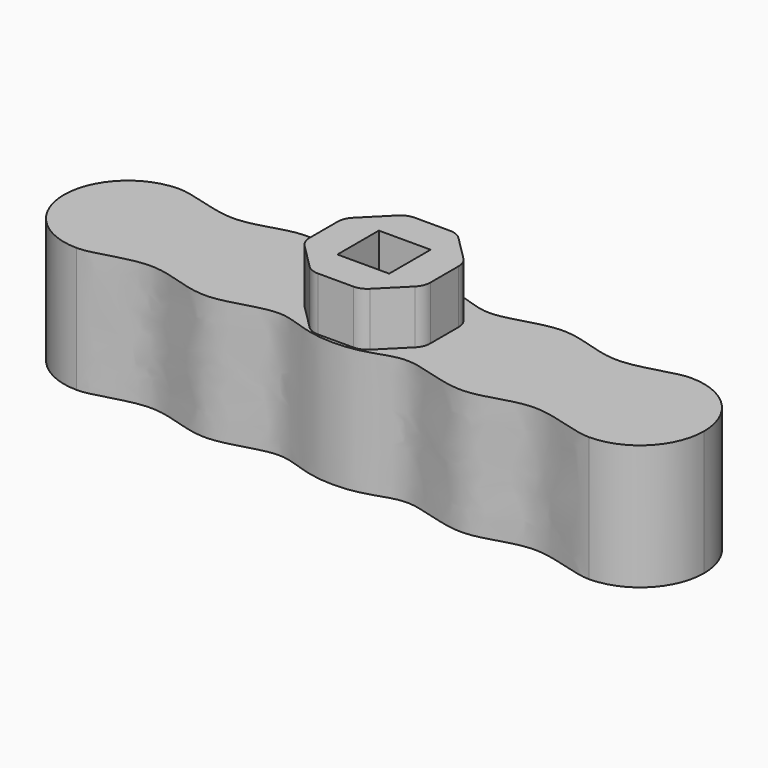
from build123d import *

# Parameters (mm, degrees)
F3_DEPTH = 7
F5_DEPTH = 3
F6_W     = 2.9
F6_H     = 2.9
F7_DEPTH = 8.5
F8_SIZE  = 1.2


with BuildPart() as f3:
    # F2 (on Top) → F3 (new body)
    with BuildSketch(Plane.XY):
        with BuildLine():
            add(Edge.make_bspline(
                [(0, -3.5833333333), (1.7916666667, -3.5833333333), (3.2975634243, -2.1833333333), (7.2710280149, -4.2833333333), (10.618324516, -2.1833333333), (13.3765574527, -3.5833333333), (14.3333333333, -3.5833333333)],
                knots=[0, 0, 0, 0, 0.25, 0.5, 0.75, 1, 1, 1, 1], degree=3))
            ThreePointArc((14.3333333333, -3.5833333333), (16.8671326326, -2.5337992993), (17.9166666667, 0))
            ThreePointArc((17.9166666667, 0), (16.8671326326, 2.5337992993), (14.3333333333, 3.5833333333))
            add(Edge.make_bspline(
                [(0, 3.5833333333), (1.7916666667, 3.5833333333), (3.2975634243, 2.1833333333), (7.2710280149, 4.2833333333), (10.618324516, 2.1833333333), (13.3765574527, 3.5833333333), (14.3333333333, 3.5833333333)],
                knots=[0, 0, 0, 0, 0.25, 0.5, 0.75, 1, 1, 1, 1], degree=3))
            add(Edge.make_bspline(
                [(0, 3.5833333333), (-1.7916666667, 3.5833333333), (-3.2975634243, 2.1833333333), (-7.2710280149, 4.2833333333), (-10.618324516, 2.1833333333), (-13.3765574527, 3.5833333333), (-14.3333333333, 3.5833333333)],
                knots=[0, 0, 0, 0, 0.25, 0.5, 0.75, 1, 1, 1, 1], degree=3))
            ThreePointArc((-14.3333333333, 3.5833333333), (-16.8671326326, 2.5337992993), (-17.9166666667, 0))
            ThreePointArc((-17.9166666667, 0), (-16.8671326326, -2.5337992993), (-14.3333333333, -3.5833333333))
            add(Edge.make_bspline(
                [(0, -3.5833333333), (-1.7916666667, -3.5833333333), (-3.2975634243, -2.1833333333), (-7.2710280149, -4.2833333333), (-10.618324516, -2.1833333333), (-13.3765574527, -3.5833333333), (-14.3333333333, -3.5833333333)],
                knots=[0, 0, 0, 0, 0.25, 0.5, 0.75, 1, 1, 1, 1], degree=3))
        make_face()
    extrude(amount=F3_DEPTH)

    # F4 (on face) → F5 (join)
    with BuildSketch(Plane.XY.offset(7)):
        with BuildLine():
            Line((-0.9872089903, -3.3833333333), (0.9872089903, -3.3833333333))
            ThreePointArc((0.9872089903, -3.3833333333), (1.3698924227, -3.3072128658), (1.6943157715, -3.0904401145))
            Line((1.6943157715, -3.0904401145), (3.0904401145, -1.6943157715))
            ThreePointArc((3.0904401145, -1.6943157715), (3.3072128658, -1.3698924227), (3.3833333333, -0.9872089903))
            Line((3.3833333333, -0.9872089903), (3.3833333333, 0.9872089903))
            ThreePointArc((3.3833333333, 0.9872089903), (3.3072128658, 1.3698924227), (3.0904401145, 1.6943157715))
            Line((3.0904401145, 1.6943157715), (1.6943157715, 3.0904401145))
            ThreePointArc((1.6943157715, 3.0904401145), (1.3698924227, 3.3072128658), (0.9872089903, 3.3833333333))
            Line((0.9872089903, 3.3833333333), (-0.9872089903, 3.3833333333))
            ThreePointArc((-0.9872089903, 3.3833333333), (-1.3698924227, 3.3072128658), (-1.6943157715, 3.0904401145))
            Line((-1.6943157715, 3.0904401145), (-3.0904401145, 1.6943157715))
            ThreePointArc((-3.0904401145, 1.6943157715), (-3.3072128658, 1.3698924227), (-3.3833333333, 0.9872089903))
            Line((-3.3833333333, 0.9872089903), (-3.3833333333, -0.9872089903))
            ThreePointArc((-3.3833333333, -0.9872089903), (-3.3072128658, -1.3698924227), (-3.0904401145, -1.6943157715))
            Line((-3.0904401145, -1.6943157715), (-1.6943157715, -3.0904401145))
            ThreePointArc((-1.6943157715, -3.0904401145), (-1.3698924227, -3.3072128658), (-0.9872089903, -3.3833333333))
        make_face()
    extrude(amount=F5_DEPTH)

    # F6 (on face) → F7 (cut)
    with BuildSketch(Plane.XY.offset(10)):
        Rectangle(F6_W, F6_H)
    extrude(amount=-F7_DEPTH, mode=Mode.SUBTRACT)

    # F8
    f8_edges = [f3.edges().sort_by_distance(p)[0] for p in [
        (0, -1.45, 1.5),
        (1.45, 0, 1.5),
        (0, 1.45, 1.5),
        (-1.45, 0, 1.5),
    ]]
    chamfer(f8_edges, length=F8_SIZE)


solid = f3.part
